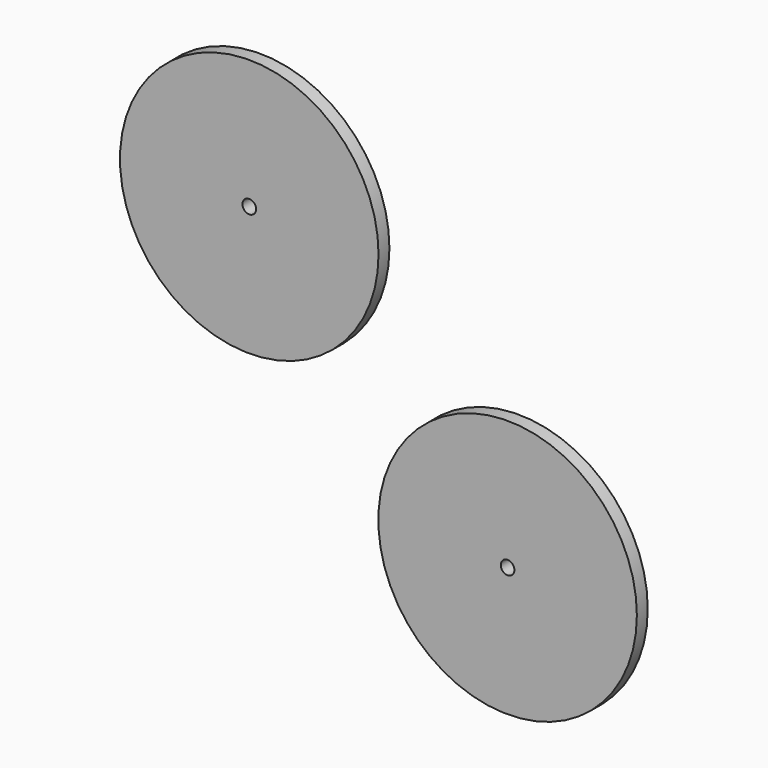
from build123d import *

# Parameters (mm, degrees)
F0_R     = 30.1625
F0_R_2   = 1.5925
F1_DEPTH = 3.175
F2_DEPTH = 3.175


with BuildPart() as f1:
    # F0 (on Front) → F1 (new body)
    with BuildSketch(Plane.XZ):
        with Locations((-93.5091, -11.744587)):
            Circle(F0_R)
        with Locations((-93.5091, -11.744587)):
            Circle(F0_R_2, mode=Mode.SUBTRACT)
    extrude(amount=F1_DEPTH)


with BuildPart() as f2:
    # F0 (on Front) → F2 (new body)
    with BuildSketch(Plane.XZ):
        with Locations((-33.232483, -66.27125)):
            Circle(F0_R)
        with Locations((-33.232483, -66.27125)):
            Circle(F0_R_2, mode=Mode.SUBTRACT)
    extrude(amount=F2_DEPTH)


solid = Compound([f1.part, f2.part])
